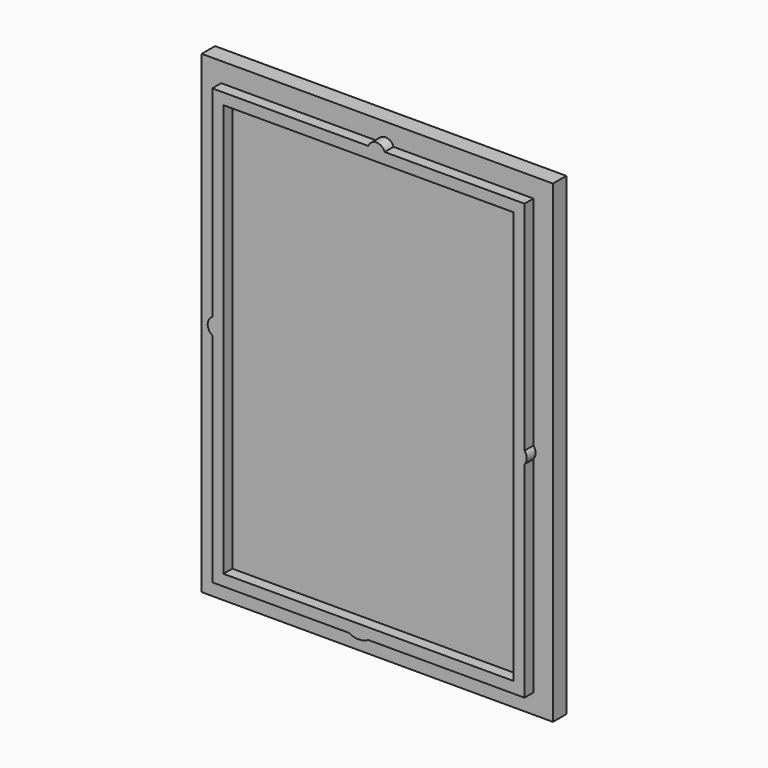
from build123d import *

# Parameters (mm, degrees)
F0_W     = 52
F0_H     = 74
F1_DEPTH = 5
F0_W_2   = 63
F0_H_2   = 85
F2_DEPTH = 3


with BuildPart() as f1:
    # F0 (on Front) → F1 (new body)
    with BuildSketch(Plane.XZ):
        with BuildLine():
            Line((19.123441, -33.42372), (47.123441, -33.42372))
            Line((47.123441, -33.42372), (47.123441, 3.436358))
            ThreePointArc((47.123441, 3.436358), (47.518206, 4.506319), (47.123441, 5.57628))
            Line((47.123441, 5.57628), (47.123441, 44.57628))
            Line((47.123441, 44.57628), (22.045474, 44.57628))
            ThreePointArc((22.045474, 44.57628), (20.584458, 45.615038), (19.123441, 44.57628))
            Line((19.123441, 44.57628), (15.997724, 44.57628))
            Line((15.997724, 44.57628), (-8.876559, 44.57628))
            Line((-8.876559, 44.57628), (-8.876559, 8.481584))
            ThreePointArc((-8.876559, 8.481584), (-9.694092, 7.028932), (-8.876559, 5.57628))
            Line((-8.876559, 5.57628), (-8.876559, -33.42372))
            Line((-8.876559, -33.42372), (15.603869, -33.42372))
            ThreePointArc((15.603869, -33.42372), (17.363655, -33.887253), (19.123441, -33.42372))
        make_face()
        with Locations((19.123441, 5.57628)):
            Rectangle(F0_W, F0_H, mode=Mode.SUBTRACT)
    extrude(amount=F1_DEPTH)

    # F0 (on Front) → F2 (join)
    with BuildSketch(Plane.XZ):
        with Locations((19.123441, 5.57628)):
            Rectangle(F0_W_2, F0_H_2)
        with BuildLine():
            Line((47.123441, 3.436358), (47.123441, -33.42372))
            Line((47.123441, -33.42372), (19.123441, -33.42372))
            ThreePointArc((19.123441, -33.42372), (17.363655, -33.887253), (15.603869, -33.42372))
            Line((15.603869, -33.42372), (-8.876559, -33.42372))
            Line((-8.876559, -33.42372), (-8.876559, 5.57628))
            ThreePointArc((-8.876559, 5.57628), (-9.694092, 7.028932), (-8.876559, 8.481584))
            Line((-8.876559, 8.481584), (-8.876559, 44.57628))
            Line((-8.876559, 44.57628), (15.997724, 44.57628))
            Line((15.997724, 44.57628), (19.123441, 44.57628))
            ThreePointArc((19.123441, 44.57628), (20.584458, 45.615038), (22.045474, 44.57628))
            Line((22.045474, 44.57628), (47.123441, 44.57628))
            Line((47.123441, 44.57628), (47.123441, 5.57628))
            ThreePointArc((47.123441, 5.57628), (47.518206, 4.506319), (47.123441, 3.436358))
        make_face(mode=Mode.SUBTRACT)
        with Locations((19.123441, 5.57628)):
            Rectangle(F0_W, F0_H)
    extrude(amount=F2_DEPTH)


solid = f1.part
